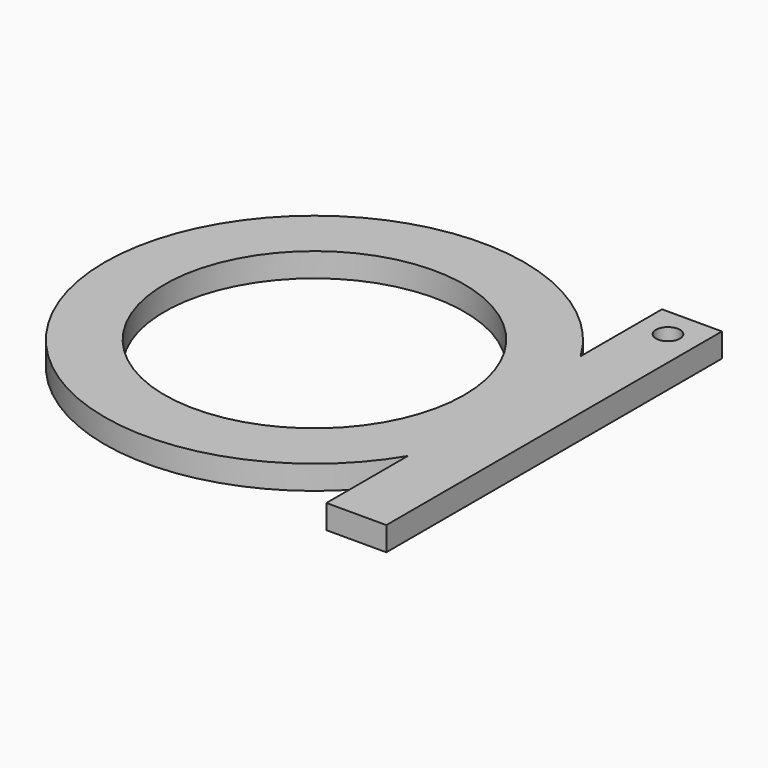
from build123d import *

# Parameters (mm, degrees)
F0_R     = 12.5
F1_DEPTH = 2
F2_R     = 1
F3_DEPTH = 2


with BuildPart() as f1:
    # F0 (on Top) → F1 (new body)
    with BuildSketch(Plane.XY):
        with BuildLine():
            Line((15, -9.0138781887), (15, 9.0138781887))
            ThreePointArc((15, 9.0138781887), (-17.5, 0), (15, -9.0138781887))
        make_face()
        Circle(F0_R, mode=Mode.SUBTRACT)
        with BuildLine():
            ThreePointArc((15, 9.0138781887), (16.863421954, 4.6770717335), (17.5, 0))
            ThreePointArc((17.5, 0), (16.863421954, -4.6770717335), (15, -9.0138781887))
            Line((15, -9.0138781887), (15, -17.5))
            Line((15, -17.5), (20, -17.5))
            Line((20, -17.5), (20, 17.5))
            Line((20, 17.5), (15, 17.5))
            Line((15, 17.5), (15, 9.0138781887))
        make_face()
        with BuildLine():
            ThreePointArc((15, -9.0138781887), (16.863421954, -4.6770717335), (17.5, 0))
            ThreePointArc((17.5, 0), (16.863421954, 4.6770717335), (15, 9.0138781887))
            Line((15, 9.0138781887), (15, -9.0138781887))
        make_face()
    extrude(amount=F1_DEPTH)

    # F2 (on face) → F3 (cut)
    with BuildSketch(Plane.XY.offset(2)):
        with Locations((17.4999982119, 15.0000024587)):
            Circle(F2_R)
    extrude(amount=-F3_DEPTH, mode=Mode.SUBTRACT)


solid = f1.part
